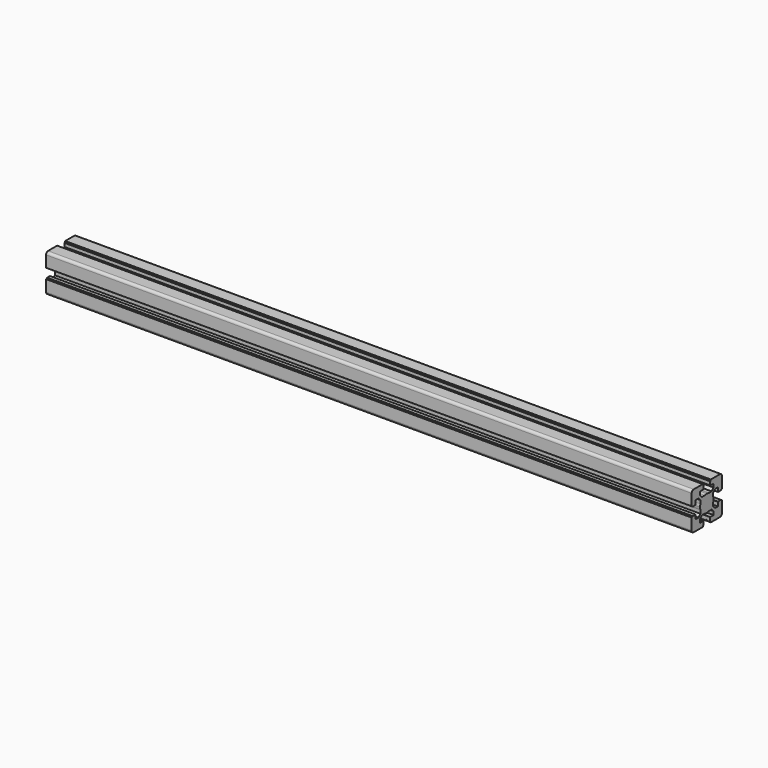
from build123d import *

# Parameters (mm, degrees)
F1_DEPTH = 768.35


with BuildPart() as f1:
    # F0 (on Right) → F1 (new body)
    with BuildSketch(Plane.YZ):
        with BuildLine():
            Line((-20.088481, -9.788837), (-20.088481, -10.288837))
            Line((-20.088481, -10.288837), (-21.28859, -10.288837))
            ThreePointArc((-21.28859, -10.288837), (-21.500722, -10.376705), (-21.58859, -10.588837))
            Line((-21.58859, -10.588837), (-21.58859, -23.988949))
            ThreePointArc((-21.58859, -23.988949), (-20.70991, -26.11027), (-18.58859, -26.988949))
            Line((-18.58859, -26.988949), (-5.188544, -26.988949))
            ThreePointArc((-5.188544, -26.988949), (-4.976411, -26.901081), (-4.888544, -26.688949))
            Line((-4.888544, -26.688949), (-4.888544, -25.488841))
            Line((-4.888544, -25.488841), (-4.388544, -25.488841))
            ThreePointArc((-4.388544, -25.488841), (-4.176411, -25.400973), (-4.088544, -25.188841))
            Line((-4.088544, -25.188841), (-4.088544, -21.288841))
            ThreePointArc((-4.088544, -21.288841), (-4.176411, -21.076709), (-4.388544, -20.988841))
            Line((-4.388544, -20.988841), (-9.138663, -20.988841))
            Line((-9.138663, -20.988841), (-9.138663, -16.881665))
            Line((-9.138663, -16.881665), (-6.245729, -13.988731))
            Line((-6.245729, -13.988731), (-2.211433, -13.988731))
            ThreePointArc((-2.211433, -13.988731), (-0.669869, -14.363044), (0.91149, -14.48887))
            Line((0.91149, -14.48887), (0.91149, -4.48887))
            Line((0.91149, -4.48887), (-9.08851, -4.48887))
            ThreePointArc((-9.08851, -4.48887), (-8.962684, -6.070229), (-8.588371, -7.611793))
            Line((-8.588371, -7.611793), (-8.588371, -11.646022))
            Line((-8.588371, -11.646022), (-11.481305, -14.538956))
            Line((-11.481305, -14.538956), (-15.588481, -14.538956))
            Line((-15.588481, -14.538956), (-15.588481, -9.788837))
            ThreePointArc((-15.588481, -9.788837), (-15.676349, -9.576705), (-15.888481, -9.488837))
            Line((-15.888481, -9.488837), (-19.788481, -9.488837))
            ThreePointArc((-19.788481, -9.488837), (-20.000613, -9.576705), (-20.088481, -9.788837))
        make_face()
        with BuildLine():
            ThreePointArc((-8.588371, -1.365947), (-8.962684, -2.907511), (-9.08851, -4.48887))
            Line((-9.08851, -4.48887), (0.91149, -4.48887))
            Line((0.91149, -4.48887), (0.91149, 5.51113))
            ThreePointArc((0.91149, 5.51113), (-0.669869, 5.385303), (-2.211433, 5.010991))
            Line((-2.211433, 5.010991), (-6.245729, 5.010991))
            Line((-6.245729, 5.010991), (-9.138663, 7.903925))
            Line((-9.138663, 7.903925), (-9.138663, 12.011101))
            Line((-9.138663, 12.011101), (-4.388544, 12.011101))
            ThreePointArc((-4.388544, 12.011101), (-4.176411, 12.098969), (-4.088544, 12.311101))
            Line((-4.088544, 12.311101), (-4.088544, 16.211101))
            ThreePointArc((-4.088544, 16.211101), (-4.176411, 16.423233), (-4.388544, 16.511101))
            Line((-4.388544, 16.511101), (-4.888544, 16.511101))
            Line((-4.888544, 16.511101), (-4.888544, 17.711209))
            ThreePointArc((-4.888544, 17.711209), (-4.976411, 17.923341), (-5.188544, 18.011209))
            Line((-5.188544, 18.011209), (-18.58859, 18.011209))
            ThreePointArc((-18.58859, 18.011209), (-20.70991, 17.13253), (-21.58859, 15.011209))
            Line((-21.58859, 15.011209), (-21.58859, 1.611097))
            ThreePointArc((-21.58859, 1.611097), (-21.500722, 1.398965), (-21.28859, 1.311097))
            Line((-21.28859, 1.311097), (-20.088481, 1.311097))
            Line((-20.088481, 1.311097), (-20.088481, 0.811097))
            ThreePointArc((-20.088481, 0.811097), (-20.000613, 0.598965), (-19.788481, 0.511097))
            Line((-19.788481, 0.511097), (-15.888481, 0.511097))
            ThreePointArc((-15.888481, 0.511097), (-15.676349, 0.598965), (-15.588481, 0.811097))
            Line((-15.588481, 0.811097), (-15.588481, 5.561216))
            Line((-15.588481, 5.561216), (-11.481305, 5.561216))
            Line((-11.481305, 5.561216), (-8.588371, 2.668282))
            Line((-8.588371, 2.668282), (-8.588371, -1.365947))
        make_face()
        with BuildLine():
            Line((0.91149, 5.51113), (0.91149, -4.48887))
            Line((0.91149, -4.48887), (10.91149, -4.48887))
            ThreePointArc((10.91149, -4.48887), (10.785663, -2.907511), (10.41135, -1.365947))
            Line((10.41135, -1.365947), (10.41135, 2.668282))
            Line((10.41135, 2.668282), (13.304285, 5.561216))
            Line((13.304285, 5.561216), (14.016842, 5.561216))
            Line((14.016842, 5.561216), (17.41146, 5.561216))
            Line((17.41146, 5.561216), (17.41146, 0.811097))
            ThreePointArc((17.41146, 0.811097), (17.499328, 0.598965), (17.71146, 0.511097))
            Line((17.71146, 0.511097), (21.61146, 0.511097))
            ThreePointArc((21.61146, 0.511097), (21.823593, 0.598965), (21.91146, 0.811097))
            Line((21.91146, 0.811097), (21.91146, 1.311097))
            Line((21.91146, 1.311097), (23.111569, 1.311097))
            ThreePointArc((23.111569, 1.311097), (23.323701, 1.398965), (23.411569, 1.611097))
            Line((23.411569, 1.611097), (23.411569, 15.011209))
            ThreePointArc((23.411569, 15.011209), (22.532889, 17.13253), (20.411569, 18.011209))
            Line((20.411569, 18.011209), (7.011523, 18.011209))
            ThreePointArc((7.011523, 18.011209), (6.799391, 17.923341), (6.711523, 17.711209))
            Line((6.711523, 17.711209), (6.711523, 16.511101))
            Line((6.711523, 16.511101), (6.211523, 16.511101))
            ThreePointArc((6.211523, 16.511101), (5.999391, 16.423233), (5.911523, 16.211101))
            Line((5.911523, 16.211101), (5.911523, 12.311101))
            ThreePointArc((5.911523, 12.311101), (5.999391, 12.098969), (6.211523, 12.011101))
            Line((6.211523, 12.011101), (10.961642, 12.011101))
            Line((10.961642, 12.011101), (10.961642, 7.903925))
            Line((10.961642, 7.903925), (8.068708, 5.010991))
            Line((8.068708, 5.010991), (4.034413, 5.010991))
            ThreePointArc((4.034413, 5.010991), (2.492849, 5.385303), (0.91149, 5.51113))
        make_face()
        with BuildLine():
            Line((10.91149, -4.48887), (0.91149, -4.48887))
            Line((0.91149, -4.48887), (0.91149, -14.48887))
            ThreePointArc((0.91149, -14.48887), (2.492849, -14.363044), (4.034413, -13.988731))
            Line((4.034413, -13.988731), (8.068708, -13.988731))
            Line((8.068708, -13.988731), (10.961642, -16.881665))
            Line((10.961642, -16.881665), (10.961642, -20.988841))
            Line((10.961642, -20.988841), (6.211523, -20.988841))
            ThreePointArc((6.211523, -20.988841), (5.999391, -21.076709), (5.911523, -21.288841))
            Line((5.911523, -21.288841), (5.911523, -25.188841))
            ThreePointArc((5.911523, -25.188841), (5.999391, -25.400973), (6.211523, -25.488841))
            Line((6.211523, -25.488841), (6.711523, -25.488841))
            Line((6.711523, -25.488841), (6.711523, -26.688949))
            ThreePointArc((6.711523, -26.688949), (6.799391, -26.901081), (7.011523, -26.988949))
            Line((7.011523, -26.988949), (20.411569, -26.988949))
            ThreePointArc((20.411569, -26.988949), (22.532889, -26.11027), (23.411569, -23.988949))
            Line((23.411569, -23.988949), (23.411569, -10.588837))
            ThreePointArc((23.411569, -10.588837), (23.323701, -10.376705), (23.111569, -10.288837))
            Line((23.111569, -10.288837), (21.91146, -10.288837))
            Line((21.91146, -10.288837), (21.91146, -9.788837))
            ThreePointArc((21.91146, -9.788837), (21.823593, -9.576705), (21.61146, -9.488837))
            Line((21.61146, -9.488837), (17.71146, -9.488837))
            ThreePointArc((17.71146, -9.488837), (17.499328, -9.576705), (17.41146, -9.788837))
            Line((17.41146, -9.788837), (17.41146, -14.538956))
            Line((17.41146, -14.538956), (13.304285, -14.538956))
            Line((13.304285, -14.538956), (10.41135, -11.646022))
            Line((10.41135, -11.646022), (10.41135, -7.611793))
            ThreePointArc((10.41135, -7.611793), (10.785663, -6.070229), (10.91149, -4.48887))
        make_face()
    extrude(amount=F1_DEPTH)


solid = f1.part
